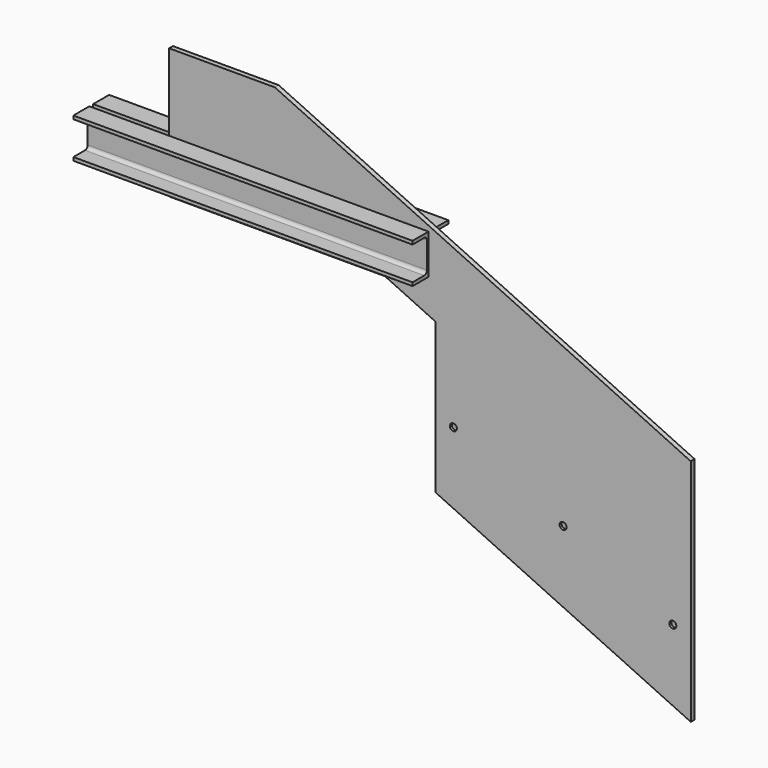
from build123d import *

# Parameters (mm, degrees)
F1_DEPTH      = 6
F2_D          = 17.5
F2_DEPTH      = 6.001
F4_DEPTH      = 650
F4_DEPTH_BACK = 200


with BuildPart() as f1:
    # F0 (on Front) → F1 (new body, symmetric)
    with BuildSketch(Plane.XZ):
        Polygon((265, 0), (0, 0), (0, -327), (541, -327), (667.2539550921, -385.8731861318), (667.2539550921, -762.5740997826), (1307.2539550921, -1061.0110010018), (1307.2539550921, -486.0110010018), align=None)
    extrude(amount=F1_DEPTH, both=True)

    # F2 (through all, one way)
    with BuildSketch(Plane(origin=(0, 0, 0), x_dir=(1, 0, 0), z_dir=(0, 1, 0))):
        with Locations((712.2539550921, 604.5740997826), (987.2539550921, 732.8087057752), (1262.2539550921, 861.0433117679)):
            Circle(F2_D / 2)
    extrude(amount=-F2_DEPTH, mode=Mode.SUBTRACT)


with BuildPart() as f4:
    # F3 (on Right) → F4 (new body, two sides)
    with BuildSketch(Plane.YZ) as f4_sk:
        with BuildLine():
            Line((-6, -193), (-56, -193))
            Line((-56, -193), (-56, -201.4))
            Line((-56, -201.4), (-19.4, -201.4))
            ThreePointArc((-19.4, -201.4), (-13.460303038, -203.860303038), (-11, -209.8))
            Line((-11, -209.8), (-11, -276.2))
            ThreePointArc((-11, -276.2), (-13.460303038, -282.139696962), (-19.4, -284.6))
            Line((-19.4, -284.6), (-56, -284.6))
            Line((-56, -284.6), (-56, -293))
            Line((-56, -293), (-6, -293))
            Line((-6, -293), (-6, -193))
        make_face()
    extrude(amount=F4_DEPTH)
    extrude(f4_sk.sketch, amount=-F4_DEPTH_BACK)


with BuildPart() as f5_1:
    # F5: instance of F4
    add(f4.part.mirror(Plane.XZ))


solid = Compound([f1.part, f4.part, f5_1.part])
